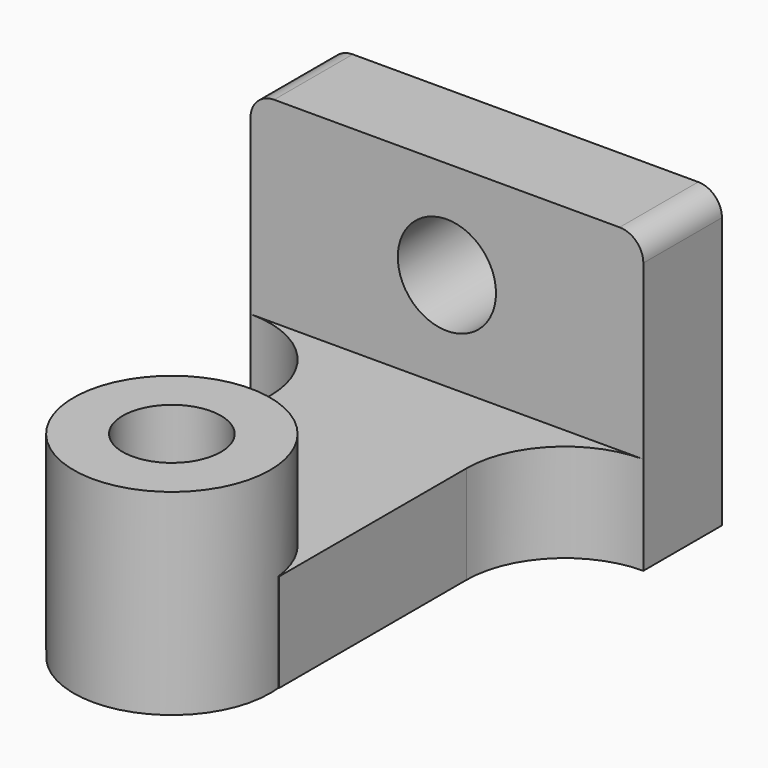
from build123d import *

# Parameters (mm, degrees)
F0_W      = 50.8
F0_H      = 12.7
F1_DEPTH  = 38.1
F2_W      = 25.4
F2_H      = 23.9464748895
F3_DEPTH  = 12.7
F5_DEPTH  = 12.7
F6_DEPTH  = 25.4
F7_DEPTH  = 6.35
F8_R      = 6.35
F9_DEPTH  = 25.4
F10_R     = 6.35
F11_DEPTH = 25.4
F12_R     = 3.0660512242


with BuildPart() as f1:
    # F0 (on Top) → F1 (new body)
    with BuildSketch(Plane.XY):
        with Locations((-34.4613061011, -6.35)):
            Rectangle(F0_W, F0_H)
    extrude(amount=F1_DEPTH)

    # F2 (on face) → F3 (join)
    with BuildSketch(Plane(origin=(0, 0, 0), x_dir=(1, 0, 0), z_dir=(0, 0, -1))):
        with BuildLine():
            ThreePointArc((-47.1613061011, 25.4), (-50.88104998, 16.4197438789), (-59.8613061011, 12.7))
            Line((-59.8613061011, 12.7), (-9.0613061011, 12.7))
            ThreePointArc((-9.0613061011, 12.7), (-18.0415622222, 16.4197438789), (-21.7613061011, 25.4))
            Line((-21.7613061011, 25.4), (-47.1613061011, 25.4))
        make_face()
        with Locations((-34.4613061011, 37.3732374447)):
            Rectangle(F2_W, F2_H)
    extrude(amount=-F3_DEPTH)

    # F4 (on face) → F5 (join)
    with BuildSketch(Plane.XY.offset(12.7)):
        with BuildLine():
            Line((-44.4810364292, -49.3464748895), (-24.4415757729, -49.3464748895))
            ThreePointArc((-24.4415757729, -49.3464748895), (-34.4613061011, -44.45), (-44.4810364292, -49.3464748895))
        make_face()
        with BuildLine():
            ThreePointArc((-44.4810364292, -49.3464748895), (-38.5868015157, -69.1612567029), (-21.7613061011, -57.15))
            ThreePointArc((-21.7613061011, -57.15), (-22.4500493981, -53.0245045854), (-24.4415757729, -49.3464748895))
            Line((-24.4415757729, -49.3464748895), (-44.4810364292, -49.3464748895))
        make_face()
    extrude(amount=F5_DEPTH)

    # F6 (add): a face of the model
    f6_faces = [f1.faces().sort_by_distance(p)[0] for p in [
        (-34.4613061011, -57.15, 25.4),
    ]]
    extrude(f6_faces, amount=-F6_DEPTH)

    # F7 (add): faces of the model
    f7_faces = [f1.faces().sort_by_distance(p)[0] for p in [
        (-45.8211712652, -49.3464748895, 6.35),
        (-23.101440937, -49.3464748895, 6.35),
    ]]
    extrude(f7_faces, amount=F7_DEPTH)

    # F8 (on face) → F9 (cut)
    with BuildSketch(Plane.XY.offset(25.4)):
        with Locations((-34.4613061011, -57.15)):
            Circle(F8_R)
    extrude(amount=-F9_DEPTH, mode=Mode.SUBTRACT)

    # F10 (on face) → F11 (cut)
    with BuildSketch(Plane.XZ.offset(12.7)):
        with Locations((-34.4613061011, 25.4)):
            Circle(F10_R)
    extrude(amount=-F11_DEPTH, mode=Mode.SUBTRACT)

    # F12
    f12_edges = [f1.edges().sort_by_distance(p)[0] for p in [
        (-59.861306, -6.35, 38.1),
        (-9.061306, -6.35, 38.1),
    ]]
    fillet(f12_edges, radius=F12_R)


solid = f1.part
